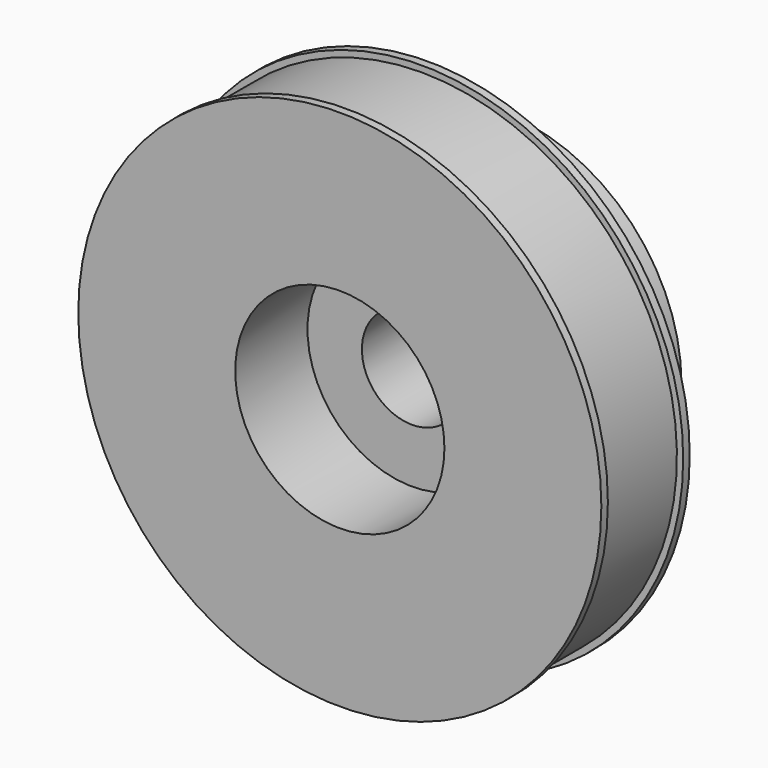
from build123d import *

# Parameters (mm, degrees)
F0_R     = 12.5
F1_DEPTH = 5.28
F2_R     = 8.65
F3_DEPTH = 4.32
F4_R     = 5
F5_DEPTH = 4.32
F6_W     = 4.5
F6_H     = 0.3
F8_R     = 2.4
F9_DEPTH = 25


with BuildPart() as f1:
    # F0 (on Front) → F1 (new body)
    with BuildSketch(Plane.XZ):
        Circle(F0_R)
    extrude(amount=F1_DEPTH)

    # F2 (on face) → F3 (join)
    with BuildSketch(Plane(origin=(0, 0, 0), x_dir=(-1, 0, 0), z_dir=(0, 1, 0))):
        Circle(F2_R)
    extrude(amount=F3_DEPTH)

    # F4 (on face) → F5 (cut)
    with BuildSketch(Plane.XZ.offset(5.28)):
        Circle(F4_R)
    extrude(amount=-F5_DEPTH, mode=Mode.SUBTRACT)

    # F6 (on Right) → F7 (revolve, cut)
    with BuildSketch(Plane.YZ):
        with Locations((-2.64, 12.35)):
            Rectangle(F6_W, F6_H)
    revolve(axis=Axis((0, 0, 0), (0, 1, 0)), mode=Mode.SUBTRACT)

    # F8 (on face) → F9 (cut)
    with BuildSketch(Plane.XZ.offset(0.96)):
        Circle(F8_R)
    extrude(amount=-F9_DEPTH, mode=Mode.SUBTRACT)


solid = f1.part
